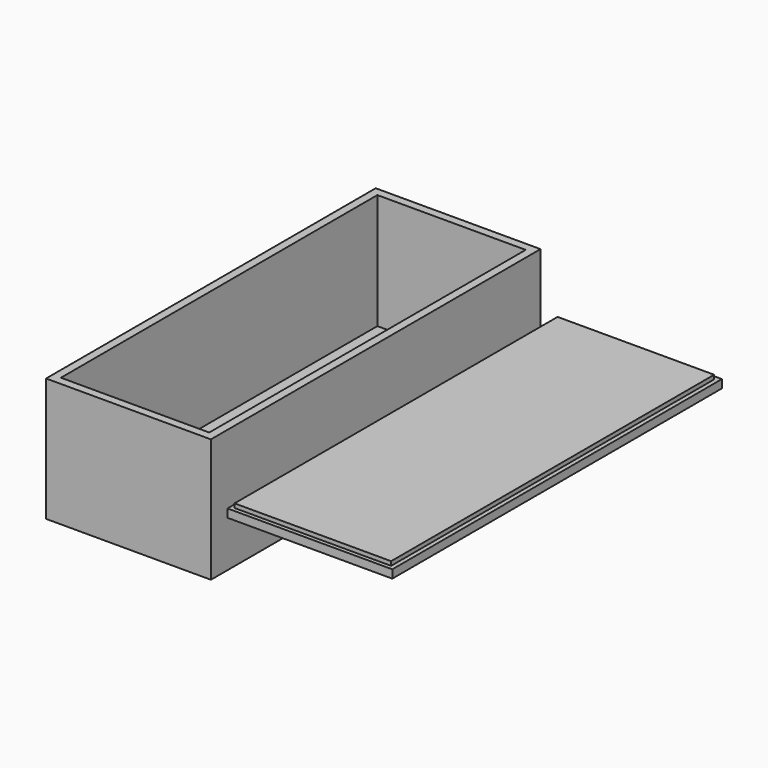
from build123d import *

# Parameters (mm, degrees)
F0_W     = 101.6
F0_H     = 76.2
F1_DEPTH = 254
F2_T     = -5.08
F3_W     = 101.6
F3_H     = 254
F4_DEPTH = 5.08
F5_W     = 96.52
F5_H     = 248.92
F6_DEPTH = 2.54


with BuildPart() as f1:
    # F0 (on Front) → F1 (new body)
    with BuildSketch(Plane.XZ):
        with Locations((-1.353553, 1.136445)):
            Rectangle(F0_W, F0_H)
    extrude(amount=F1_DEPTH)

    # F2
    f2_openings = [f1.faces().sort_by_distance(p)[0] for p in [
        (-1.353553, -127, 39.236445),
    ]]
    offset(amount=F2_T, openings=f2_openings)


with BuildPart() as f4:
    # F3 (on Top) → F4 (new body)
    with BuildSketch(Plane.XY):
        with Locations((110.469144, -127)):
            Rectangle(F3_W, F3_H)
    extrude(amount=F4_DEPTH)

    # F5 (on face) → F6 (join)
    with BuildSketch(Plane.XY.offset(5.08)):
        with Locations((110.319471, -127.081529)):
            Rectangle(F5_W, F5_H)
    extrude(amount=F6_DEPTH)


solid = Compound([f1.part, f4.part])
